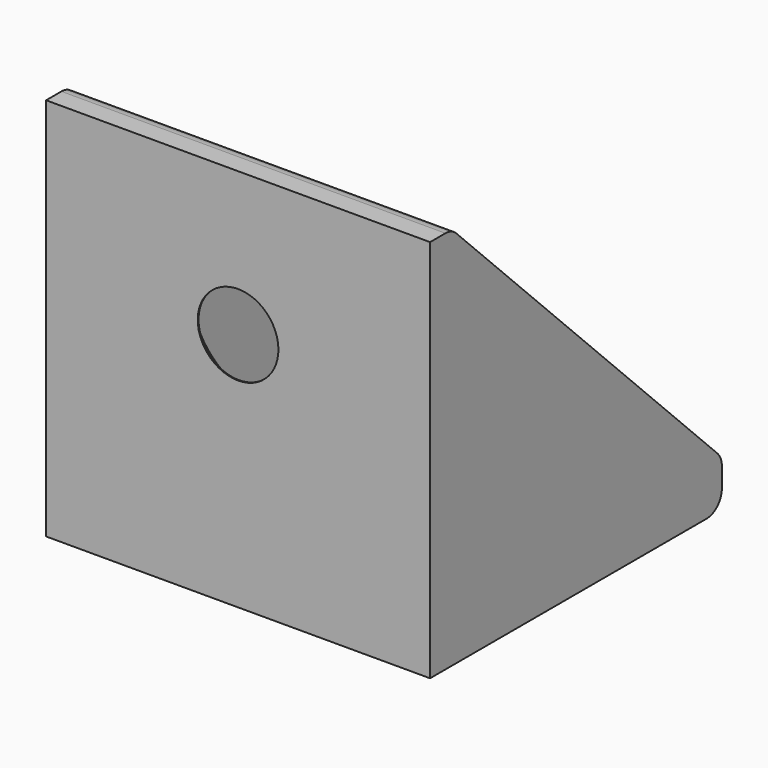
from build123d import *

# Parameters (mm, degrees)
PAD001_DEPTH            = 20
POCKET001_DEPTH         = 16
HOLE002_D               = 4
HOLE002_CSINK_D         = 7
HOLE002_CSINK_ANGLE     = 90
HOLE003_D               = 4.2
HOLE003_DEPTH           = 25
HOLE003_CSINK_D         = 8.1
HOLE003_CSINK_ANGLE     = 90
BODY001_PLACEMENT_ANGLE = 90


with BuildPart() as part:
    # Sketch004 → Pad001 (new body)
    with BuildSketch(Plane.XZ):
        with BuildLine():
            Line((1, 0), (19, 0))
            ThreePointArc((19, 0), (19.707107, 0.292893), (20, 1))
            Line((20, 1), (20, 2))
            ThreePointArc((20, 2), (19.92388, 2.382683), (19.707107, 2.707107))
            Line((19.707107, 2.707107), (2.707107, 19.707107))
            ThreePointArc((2.707107, 19.707107), (2.382683, 19.92388), (2, 20))
            Line((2, 20), (1, 20))
            Line((1, 20), (1, 0))
        make_face()
    extrude(amount=PAD001_DEPTH)

    # Sketch005 (on Face10 of Pad001) → Pocket001 (cut)
    with BuildSketch(Plane.XZ.offset(18)):
        with BuildLine():
            Line((3, 19), (3, 4))
            ThreePointArc((3, 4), (3.292893, 3.292893), (4, 3))
            Line((4, 3), (19, 3))
            ThreePointArc((20, 2), (19.707107, 2.707107), (19, 3))
            Line((20, 20), (20, 2))
            Line((2, 20), (20, 20))
            ThreePointArc((3, 19), (2.707107, 19.707107), (2, 20))
        make_face()
    extrude(amount=-POCKET001_DEPTH, mode=Mode.SUBTRACT)

    # Hole002 (through all)
    with Locations(Plane(origin=(0, 0, 3), x_dir=(-1, 0, 0), z_dir=(0, 0, 1))):
        with Locations((-11.5, 10)):
            CounterSinkHole(HOLE002_D / 2, HOLE002_CSINK_D / 2, counter_sink_angle=HOLE002_CSINK_ANGLE)

    # Hole003
    with Locations(Plane(origin=(3, 0, 0), x_dir=(0, 0, 1), z_dir=(1, 0, 0))):
        with Locations((12.5, 10)):
            CounterSinkHole(HOLE003_D / 2, HOLE003_CSINK_D / 2, depth=HOLE003_DEPTH, counter_sink_angle=HOLE003_CSINK_ANGLE)


with BuildPart() as part_1:
    # Body001 placement: moved
    add(part.part.moved(Location((24.1, 12.6, 0))).rotate(Axis((24.1, 12.6, 0), (0, 0, 1)), BODY001_PLACEMENT_ANGLE))


solid = part_1.part
